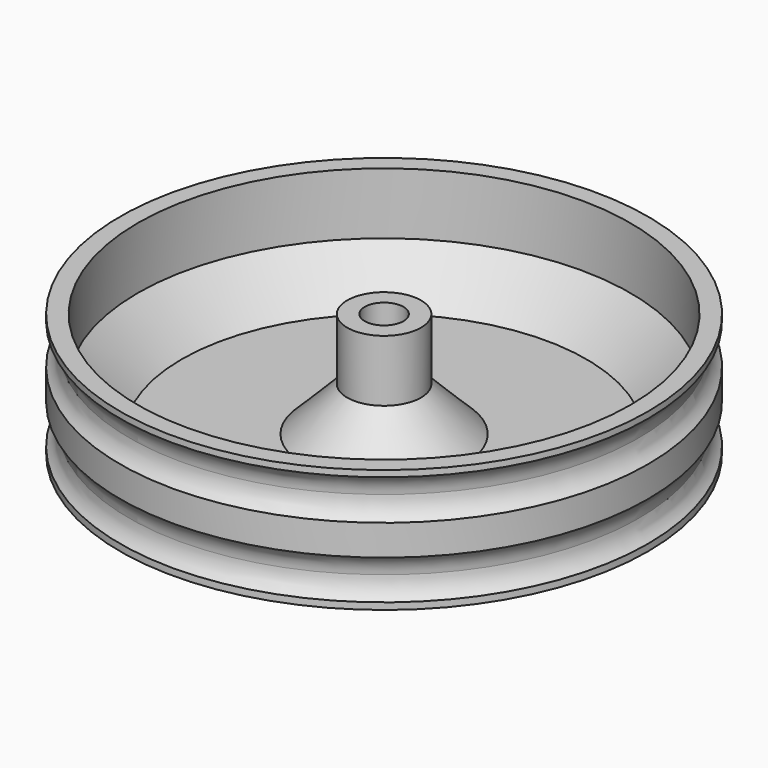
from build123d import *

# Parameters (mm, degrees)
F0_R     = 30
F0_R_2   = 2.2
F1_DEPTH = 14
F2_T     = -2
F3_SIZE  = 5
F4_R     = 3


with BuildPart() as f1:
    # F0 (on Top) → F1 (new body)
    with BuildSketch(Plane.XY):
        Circle(F0_R)
        Circle(F0_R_2, mode=Mode.SUBTRACT)
    extrude(amount=F1_DEPTH)

    # F2
    f2_openings = [f1.faces().sort_by_distance(p)[0] for p in [
        (-29.151472, 0, 14),
    ]]
    offset(amount=F2_T, openings=f2_openings)

    # F3
    f3_edges = [f1.edges().sort_by_distance(p)[0] for p in [
        (-28, 0, 2),
        (-4.2, 0, 2),
    ]]
    chamfer(f3_edges, length=F3_SIZE)

    # F5: sweep along a path in F5_path
    with BuildLine(Plane(origin=(30, 0, 14), x_dir=(0, -1, 0), z_dir=(0, 0, -1))) as f5_path:
        CenterArc((0, 30), 30, 0, 360)
    # F4 (on Front) → F5 (sweep, cut)
    with BuildSketch(Plane.XZ):
        with Locations((-32, 2.9998219346)):
            Circle(F4_R)
        with Locations((-31.9502516922, 11)):
            Circle(F4_R)
    sweep(path=f5_path.line, mode=Mode.SUBTRACT)


solid = f1.part
